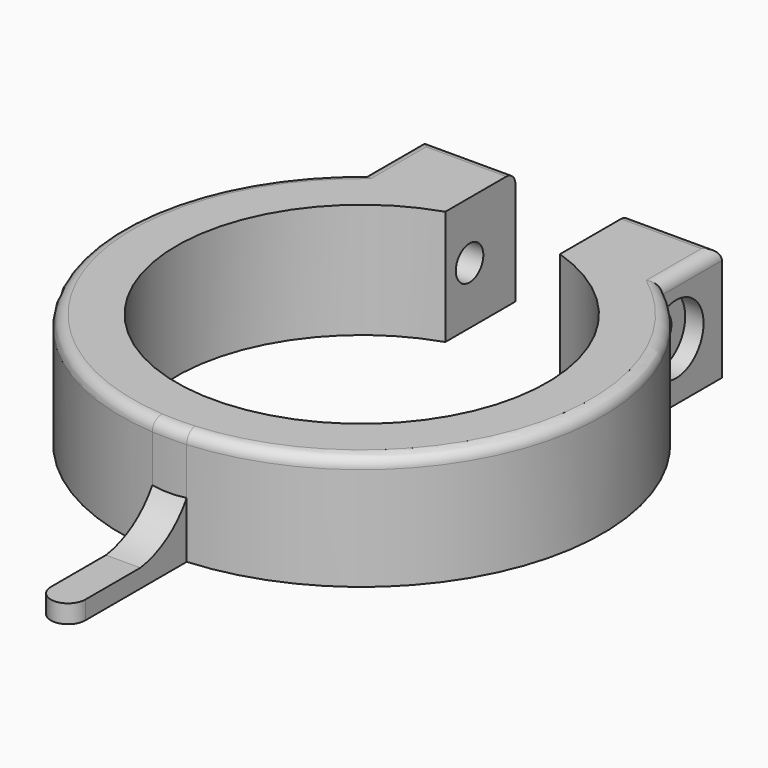
from build123d import *

# Parameters (mm, degrees)
PAD_DEPTH            = 10
POCKET_DEPTH         = 8.4
SKETCH002_R          = 1.5
POCKET001_DEPTH      = 34.001
POCKET001_DEPTH_BACK = -8.001
SKETCH003_R          = 3
POCKET004_DEPTH      = 1.6
POCKET005_DEPTH      = 2
FILLET_R             = 1
PAD001_DEPTH         = 1.5


with BuildPart() as fillet_body:
    # Sketch → Pad (new body)
    with BuildSketch(Plane.XY):
        with BuildLine():
            ThreePointArc((-5, 15.356513), (0, -16.15), (5, 15.356513))
            Line((5, 23), (5, 15.356513))
            Line((5, 23), (13, 23))
            Line((13, 16.492423), (13, 23))
            ThreePointArc((1.5, -20.94636), (20.074315, -6.166189), (13, 16.492423))
            Line((1.5, -20.94636), (1.5, -32.000014))
            ThreePointArc((-1.5, -32.000014), (0, -33.5), (1.5, -32.000014))
            Line((-1.5, -20.94636), (-1.5, -32.000014))
            ThreePointArc((-13, 16.492423), (-20.074315, -6.166189), (-1.5, -20.94636))
            Line((-13, 16.492423), (-13, 23))
            Line((-13, 23), (-5, 23))
            Line((-5, 23), (-5, 15.356513))
        make_face()
    extrude(amount=PAD_DEPTH)

    # Sketch001 → Pocket (cut)
    with BuildSketch(Plane.XY.offset(10)):
        with BuildLine():
            ThreePointArc((-1.5, -20.94636), (0, -21), (1.5, -20.94636))
            Line((1.5, -20.94636), (1.5, -32.000014))
            ThreePointArc((-1.5, -32.000014), (0, -33.5), (1.5, -32.000014))
            Line((-1.5, -20.94636), (-1.5, -32.000014))
        make_face()
    extrude(amount=-POCKET_DEPTH, mode=Mode.SUBTRACT)

    # Sketch002 → Pocket001 (cut, two sides)
    with BuildSketch(Plane.YZ.offset(13)) as pocket001_sk:
        with Locations((18, 5)):
            Circle(SKETCH002_R)
    extrude(amount=-POCKET001_DEPTH, mode=Mode.SUBTRACT)
    extrude(pocket001_sk.sketch, amount=-POCKET001_DEPTH_BACK, mode=Mode.SUBTRACT)

    # Sketch003 → Pocket004 (cut, symmetric)
    with BuildSketch(Plane.YZ.offset(13)):
        with Locations((18, 5)):
            Circle(SKETCH003_R)
    extrude(amount=POCKET004_DEPTH, both=True, mode=Mode.SUBTRACT)

    # Sketch004 → Pocket005 (cut, symmetric)
    with BuildSketch(Plane(origin=(-13, 0, 0), x_dir=(0, -1, 0), z_dir=(-1, 0, 0))):
        Polygon((-18, 8.3), (-20.857884, 6.65), (-20.857884, 3.35), (-18, 1.7), (-15.142116, 3.35), (-15.142116, 6.65), align=None)
    extrude(amount=POCKET005_DEPTH, both=True, mode=Mode.SUBTRACT)

    # Fillet
    fillet_edges = [fillet_body.edges().sort_by_distance(p)[0] for p in [
        (-20.074315, -6.166189, 10),
        (0, -21, 10),
        (20.074315, -6.166189, 10),
        (13, 19.746211, 10),
        (9, 23, 10),
        (-9, 23, 10),
        (-13, 19.746211, 10),
    ]]
    fillet(fillet_edges, radius=FILLET_R)


with BuildPart() as fusion:
    # Sketch005 → Pad001 (new body, symmetric)
    with BuildSketch(Plane.YZ):
        with BuildLine():
            Line((-26, 1.6), (-20, 1.6))
            Line((-20, 1.6), (-20, 9.5))
            ThreePointArc((-26, 1.6), (-21.359014, 4.303682), (-20, 9.5))
        make_face()
    extrude(amount=PAD001_DEPTH, both=True)

    # Fusion: union Fillet body
    add(fillet_body.part)


solid = fusion.part
